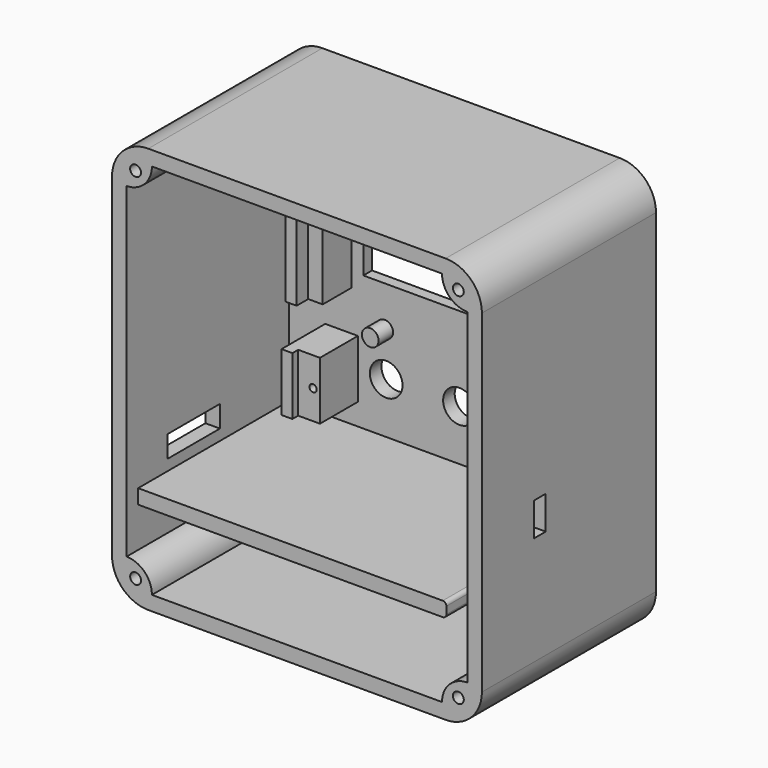
from build123d import *

# Parameters (mm, degrees)
F0_W      = 51
F0_H      = 56
F1_DEPTH  = 30
F2_T      = -2
F3_R      = 5
F4_W      = 26.5
F4_H      = 16
F5_DEPTH  = 2.001
F6_SIZE   = 0.5
F7_W      = 42.5
F7_H      = 2
F8_DEPTH  = 26
F9_R      = 0.5
F10_W     = 9
F10_H     = 3
F11_DEPTH = 3
F12_W     = 2
F12_H     = 20
F13_DEPTH = 5
F12_W_2   = 1.5
F14_DEPTH = 7
F15_W     = 3
F15_H     = 8
F16_DEPTH = 6.54
F17_R     = 2.25
F18_DEPTH = 2.001
F15_W_2   = 1.5
F19_DEPTH = 7.54
F20_R     = 0.5
F21_DEPTH = 5
F22_R     = 1.15
F23_DEPTH = 2.5
F24_R     = 0.75
F25_DEPTH = 28
F26_W     = 2
F26_H     = 4.6
F27_DEPTH = 2


with BuildPart() as f1:
    # F0 (on Front) → F1 (new body)
    with BuildSketch(Plane.XZ):
        with Locations((25.5, 28)):
            Rectangle(F0_W, F0_H)
    extrude(amount=F1_DEPTH)

    # F2
    f2_openings = [f1.faces().sort_by_distance(p)[0] for p in [
        (25.5, -30, 28),
    ]]
    offset(amount=F2_T, openings=f2_openings)

    # F3
    f3_edges = [f1.edges().sort_by_distance(p)[0] for p in [
        (0, -15, 56),
        (0, -15, 0),
        (51, -15, 0),
        (51, -15, 56),
    ]]
    fillet(f3_edges, radius=F3_R)

    # F4 (on face) → F5 (cut, through all)
    with BuildSketch(Plane.XZ.offset(2)):
        with Locations((25.5, 39.58)):
            Rectangle(F4_W, F4_H)
    extrude(amount=-F5_DEPTH, mode=Mode.SUBTRACT)

    # F6
    f6_edges = [f1.edges().sort_by_distance(p)[0] for p in [
        (25.5, 0, 47.58),
        (38.75, 0, 39.58),
        (25.5, 0, 31.58),
        (12.25, 0, 39.58),
    ]]
    chamfer(f6_edges, length=F6_SIZE)

    # F7 (on face) → F8 (join)
    with BuildSketch(Plane.XZ.offset(2)):
        with Locations((23.25, 12)):
            Rectangle(F7_W, F7_H)
    extrude(amount=F8_DEPTH)

    # F9
    f9_edges = [f1.edges().sort_by_distance(p)[0] for p in [
        (44.5, -15, 11),
        (44.5, -15, 13),
    ]]
    fillet(f9_edges, radius=F9_R)

    # F10 (on face) → F11 (cut)
    with BuildSketch(Plane(origin=(0, 0, 0), x_dir=(0, -1, 0), z_dir=(-1, 0, 0))):
        with Locations((18.4, 16)):
            Rectangle(F10_W, F10_H)
    extrude(amount=-F11_DEPTH, mode=Mode.SUBTRACT)

    # F12 (on face) → F13 (join)
    with BuildSketch(Plane.XZ.offset(2)):
        with Locations((9.65, 39.58)):
            Rectangle(F12_W, F12_H)
        with Locations((41.35, 39.58)):
            Rectangle(F12_W, F12_H)
    extrude(amount=F13_DEPTH)

    # F12 (on face) → F14 (join)
    with BuildSketch(Plane.XZ.offset(2)):
        with Locations((7.9, 39.58)):
            Rectangle(F12_W_2, F12_H)
        with Locations((43.1, 39.58)):
            Rectangle(F12_W_2, F12_H)
    extrude(amount=F14_DEPTH)

    # F15 (on face) → F16 (join)
    with BuildSketch(Plane.XZ.offset(2)):
        with Locations((10, 20)):
            Rectangle(F15_W, F15_H)
        with Locations((41, 20)):
            Rectangle(F15_W, F15_H)
    extrude(amount=F16_DEPTH)

    # F17 (on face) → F18 (cut, through all)
    with BuildSketch(Plane.XZ.offset(2)):
        with Locations((15.4, 20)):
            Circle(F17_R)
        with Locations((25.5, 20)):
            Circle(F17_R)
        with Locations((35.6, 20)):
            Circle(F17_R)
    extrude(amount=-F18_DEPTH, mode=Mode.SUBTRACT)

    # F15 (on face) → F19 (join)
    with BuildSketch(Plane.XZ.offset(2)):
        with Locations((7.75, 20)):
            Rectangle(F15_W_2, F15_H)
        with Locations((43.25, 20)):
            Rectangle(F15_W_2, F15_H)
    extrude(amount=F19_DEPTH)

    # F20 (on face) → F21 (cut)
    with BuildSketch(Plane.XZ.offset(8.54)):
        with Locations((10.551, 20)):
            Circle(F20_R)
        with Locations((40.449, 20)):
            Circle(F20_R)
    extrude(amount=-F21_DEPTH, mode=Mode.SUBTRACT)

    # F22 (on face) → F23 (join)
    with BuildSketch(Plane.XZ.offset(2)):
        with Locations((15.2, 49.51)):
            Circle(F22_R)
        with Locations((35.8, 49.51)):
            Circle(F22_R)
        with Locations((35.8, 26.01)):
            Circle(F22_R)
        with Locations((15.2, 26.01)):
            Circle(F22_R)
    extrude(amount=F23_DEPTH)

    # F24 (on face) → F25 (join)
    with BuildSketch(Plane.XZ.offset(2)):
        with BuildLine():
            Line((5.5, 54), (2, 54))
            Line((2, 54), (2, 50.5))
            ThreePointArc((2, 50.5), (4.474874, 51.525126), (5.5, 54))
        make_face()
        with Locations((3.25, 52.75)):
            Circle(F24_R, mode=Mode.SUBTRACT)
        with BuildLine():
            Line((49, 50.5), (49, 54))
            Line((49, 54), (45.5, 54))
            ThreePointArc((45.5, 54), (46.525126, 51.525126), (49, 50.5))
        make_face()
        with Locations((47.75, 52.75)):
            Circle(F24_R, mode=Mode.SUBTRACT)
        with BuildLine():
            Line((45.5, 2), (49, 2))
            Line((49, 2), (49, 5.5))
            ThreePointArc((49, 5.5), (46.525126, 4.474874), (45.5, 2))
        make_face()
        with Locations((47.75, 3.25)):
            Circle(F24_R, mode=Mode.SUBTRACT)
        with BuildLine():
            Line((2, 5.5), (2, 2))
            Line((2, 2), (5.5, 2))
            ThreePointArc((5.5, 2), (4.474874, 4.474874), (2, 5.5))
        make_face()
        with Locations((3.25, 3.25)):
            Circle(F24_R, mode=Mode.SUBTRACT)
    extrude(amount=F25_DEPTH)

    # F26 (on face) → F27 (cut)
    with BuildSketch(Plane.YZ.offset(51)):
        with Locations((-20, 22.3)):
            Rectangle(F26_W, F26_H)
    extrude(amount=-F27_DEPTH, mode=Mode.SUBTRACT)


solid = f1.part
